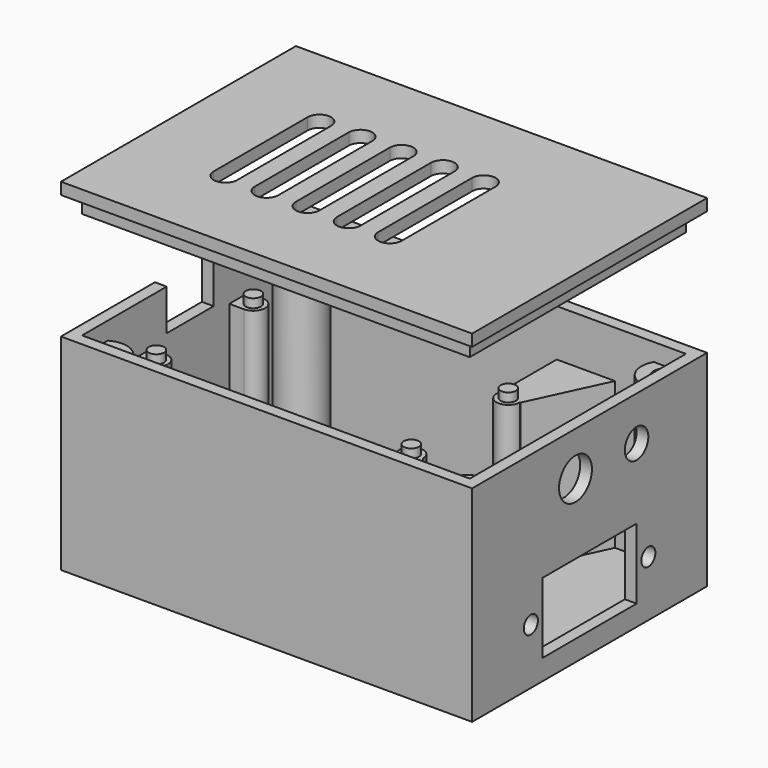
from build123d import *

# Parameters (mm, degrees)
SKETCH_W        = 70
SKETCH_H        = 50
PAD_DEPTH       = 17.5
SKETCH001_W     = 66
SKETCH001_H     = 46
POCKET_DEPTH    = 33
SKETCH002_R     = 2
PAD001_DEPTH    = 25
SKETCH003_R     = 1.3
PAD002_DEPTH    = 1.5
SKETCH004_W     = 10
SKETCH004_H     = 7
POCKET001_DEPTH = 2
SKETCH005_R     = 1.5
SKETCH005_W     = 20
SKETCH005_H     = 12
POCKET009_DEPTH = 2
SKETCH015_W     = 2.5
SKETCH015_H     = 4
PAD006_DEPTH    = 25
SKETCH016_R     = 4
PAD007_DEPTH    = 30
SKETCH017_R     = 1.88
POCKET010_DEPTH = 32.001
POCKET011_DEPTH = 5
SKETCH006_R     = 2.5
SKETCH006_R_2   = 3.5
POCKET012_DEPTH = 2
SKETCH007_W     = 70
SKETCH007_H     = 50
PAD003_DEPTH    = 2
SKETCH008_W     = 66
SKETCH008_H     = 46
PAD004_DEPTH    = 3
SKETCH011_W     = 62
SKETCH011_H     = 42
POCKET004_DEPTH = 3
POCKET006_DEPTH = 2.001


with BuildPart() as obj1:
    # Sketch → Pad (new body, symmetric)
    with BuildSketch(Plane.XY):
        Rectangle(SKETCH_W, SKETCH_H)
    extrude(amount=PAD_DEPTH, both=True)

    # Sketch001 (on Face6 of Pad) → Pocket (cut)
    with BuildSketch(Plane.XY.offset(17.5)):
        Rectangle(SKETCH001_W, SKETCH001_H)
    extrude(amount=-POCKET_DEPTH, mode=Mode.SUBTRACT)

    # Sketch002 → Pad001 (join)
    with BuildSketch(Plane.XY.offset(-15.5)):
        with Locations((-30.5, 10.325)):
            Circle(SKETCH002_R)
        with Locations((12.9, 10.325)):
            Circle(SKETCH002_R)
        with Locations((-30.5, -10.325)):
            Circle(SKETCH002_R)
        with Locations((12.9, -10.325)):
            Circle(SKETCH002_R)
    extrude(amount=PAD001_DEPTH)

    # Sketch003 (on Face17 of Pad001) → Pad002 (join)
    with BuildSketch(Plane.XY.offset(9.5)):
        with Locations((-30.5, 10.325)):
            Circle(SKETCH003_R)
        with Locations((12.9, 10.325)):
            Circle(SKETCH003_R)
        with Locations((-30.5, -10.325)):
            Circle(SKETCH003_R)
        with Locations((12.9, -10.325)):
            Circle(SKETCH003_R)
    extrude(amount=PAD002_DEPTH)

    # Sketch004 (on Face2 of Pad002) → Pocket001 (cut)
    with BuildSketch(Plane(origin=(-35, 0, 0), x_dir=(0, -1, 0), z_dir=(-1, 0, 0))):
        with Locations((0, 14)):
            Rectangle(SKETCH004_W, SKETCH004_H)
    extrude(amount=-POCKET001_DEPTH, mode=Mode.SUBTRACT)

    # Sketch005 (on Face3 of Pocket001) → Pocket009 (cut)
    with BuildSketch(Plane.YZ.offset(35)):
        with Locations((-12.5, -8)):
            Circle(SKETCH005_R)
        with Locations((12.5, -8)):
            Circle(SKETCH005_R)
        with Locations((0, -8)):
            Rectangle(SKETCH005_W, SKETCH005_H)
    extrude(amount=-POCKET009_DEPTH, mode=Mode.SUBTRACT)

    # Sketch015 → Pad006 (join)
    with BuildSketch(Plane.XY.offset(-15.5)):
        Polygon((11, 10.325), (11, 23.325), (21.062, 23.325), (15, 10.325), align=None)
        Polygon((11, -10.325), (15, -10.325), (21.062, -23.325), (11, -23.325), align=None)
        with Locations((-31.75, 10.325)):
            Rectangle(SKETCH015_W, SKETCH015_H)
        with Locations((-31.75, -10.325)):
            Rectangle(SKETCH015_W, SKETCH015_H)
    extrude(amount=PAD006_DEPTH)

    # Sketch016 → Pad007 (join)
    with BuildSketch(Plane.XY.offset(-15.5)):
        with Locations((-31, 21)):
            Circle(SKETCH016_R)
        with Locations((31, 21)):
            Circle(SKETCH016_R)
        with Locations((-31, -21)):
            Circle(SKETCH016_R)
        with Locations((31, -21)):
            Circle(SKETCH016_R)
    extrude(amount=PAD007_DEPTH)

    # Sketch017 (on Face31 of Pad007) → Pocket010 (cut, through all)
    with BuildSketch(Plane.XY.offset(14.5)):
        with Locations((-31, 21)):
            Circle(SKETCH017_R)
        with Locations((31, 21)):
            Circle(SKETCH017_R)
        with Locations((31, -21)):
            Circle(SKETCH017_R)
        with Locations((-31, -21)):
            Circle(SKETCH017_R)
    extrude(amount=-POCKET010_DEPTH, mode=Mode.SUBTRACT)

    # Sketch018 → Pocket011 (cut)
    with BuildSketch(Plane(origin=(0, 0, -17.5), x_dir=(1, 0, 0), z_dir=(0, 0, -1))):
        Polygon((-29.383419, 18.2), (-27.766838, 21), (-29.383419, 23.8), (-32.616581, 23.8), (-34.233162, 21), (-32.616581, 18.2), align=None)
        Polygon((32.616581, 18.2), (34.233162, 21), (32.616581, 23.8), (29.383419, 23.8), (27.766838, 21), (29.383419, 18.2), align=None)
        Polygon((-29.383419, -23.8), (-27.766838, -21), (-29.383419, -18.2), (-32.616581, -18.2), (-34.233162, -21), (-32.616581, -23.8), align=None)
        Polygon((32.616581, -23.8), (34.233162, -21), (32.616581, -18.2), (29.383419, -18.2), (27.766838, -21), (29.383419, -23.8), align=None)
    extrude(amount=-POCKET011_DEPTH, mode=Mode.SUBTRACT)

    # Sketch006 → Pocket012 (cut)
    with BuildSketch(Plane.YZ.offset(35)):
        with Locations((10, 10)):
            Circle(SKETCH006_R)
        with Locations((-3, 10)):
            Circle(SKETCH006_R_2)
    extrude(amount=-POCKET012_DEPTH, mode=Mode.SUBTRACT)


with BuildPart() as deckel:
    # Sketch007 → Pad003 (new body)
    with BuildSketch(Plane.XY):
        Rectangle(SKETCH007_W, SKETCH007_H)
    extrude(amount=PAD003_DEPTH)

    # Sketch008 (on Face5 of Pad003) → Pad004 (join)
    with BuildSketch(Plane(origin=(0, 0, 0), x_dir=(1, 0, 0), z_dir=(0, 0, -1))):
        Rectangle(SKETCH008_W, SKETCH008_H)
    extrude(amount=PAD004_DEPTH)

    # Sketch011 (on Face11 of Pad004) → Pocket004 (cut)
    with BuildSketch(Plane(origin=(0, 0, -3), x_dir=(1, 0, 0), z_dir=(0, 0, -1))):
        Rectangle(SKETCH011_W, SKETCH011_H)
    extrude(amount=-POCKET004_DEPTH, mode=Mode.SUBTRACT)

    # Sketch012 → Pocket006 (cut, through all)
    with BuildSketch(Plane(origin=(0, 0, 0), x_dir=(1, 0, 0), z_dir=(0, 0, -1))):
        with BuildLine():
            ThreePointArc((-3, 10), (-5, 12), (-7, 10))
            Line((-7, 10), (-7, -10))
            ThreePointArc((-7, -10), (-5, -12), (-3, -10))
            Line((-3, 10), (-3, -10))
        make_face()
        with BuildLine():
            ThreePointArc((-10, 10), (-12, 12), (-14, 10))
            Line((-14, 10), (-14, -10))
            ThreePointArc((-14, -10), (-12, -12), (-10, -10))
            Line((-10, 10), (-10, -10))
        make_face()
        with BuildLine():
            ThreePointArc((-17, 10), (-19, 12), (-21, 10))
            Line((-21, 10), (-21, -10))
            ThreePointArc((-21, -10), (-19, -12), (-17, -10))
            Line((-17, 10), (-17, -10))
        make_face()
        with BuildLine():
            ThreePointArc((4, 10), (2, 12), (0, 10))
            Line((0, 10), (0, -10))
            ThreePointArc((0, -10), (2, -12), (4, -10))
            Line((4, 10), (4, -10))
        make_face()
        with BuildLine():
            ThreePointArc((11, 10), (9, 12), (7, 10))
            Line((7, 10), (7, -10))
            ThreePointArc((7, -10), (9, -12), (11, -10))
            Line((11, 10), (11, -10))
        make_face()
    extrude(amount=-POCKET006_DEPTH, mode=Mode.SUBTRACT)


with BuildPart() as deckel_1:
    # Body001 placement: moved
    add(deckel.part.moved(Location((0, 0, 38.7))))


solid = Compound([obj1.part, deckel_1.part])
